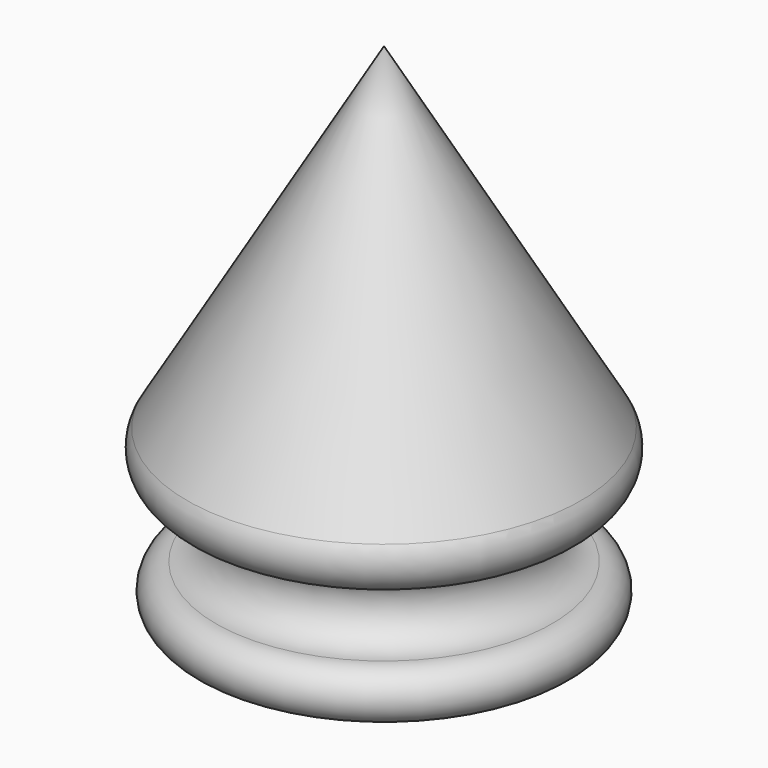
from build123d import *


with BuildPart() as f1:
    # F0 (on Front) → F1 (revolve)
    with BuildSketch(Plane.XZ):
        with BuildLine():
            Line((-3.175, -5.08), (0, -5.08))
            Line((0, -5.08), (0, 38.1))
            Line((0, 38.1), (-14.890872, 12.715177))
            ThreePointArc((-14.890872, 12.715177), (-14.904081, 10.167611), (-12.7, 8.89))
            ThreePointArc((-12.7, 8.89), (-10.16, 6.35), (-12.7, 3.81))
            ThreePointArc((-12.7, 3.81), (-14.605, 1.905), (-12.7, 0))
            Line((-12.7, 0), (-3.175, 0))
            Line((-3.175, 0), (-3.175, -5.08))
        make_face()
    revolve(axis=Axis((0, 0, 16.51), (0, 0, 1)))


solid = f1.part
